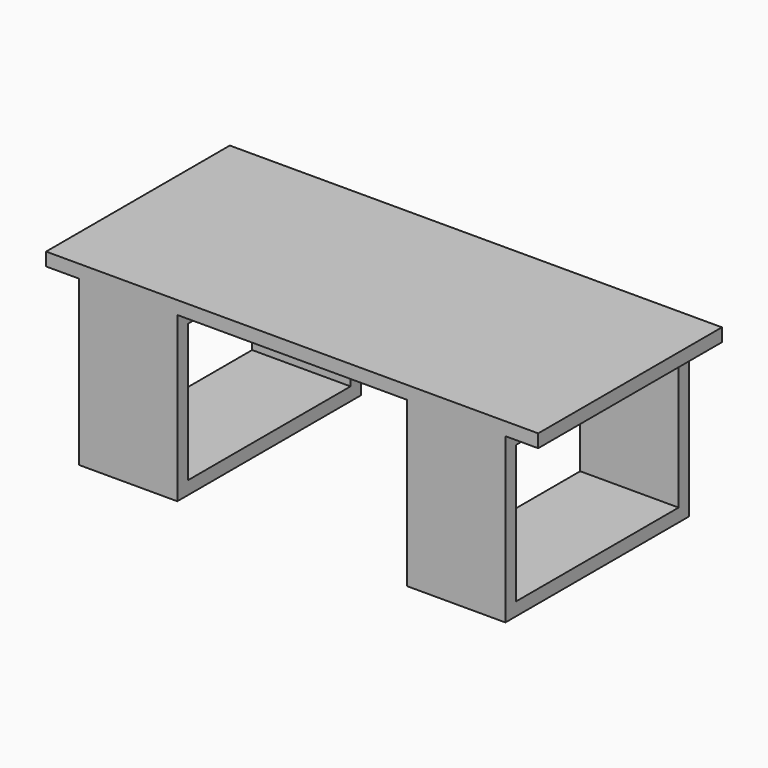
from build123d import *

# Parameters (mm, degrees)
F0_W     = 1500
F0_H     = 700
F1_DEPTH = 40
F2_W     = 300
F2_H     = 700
F3_DEPTH = 500
F4_W     = 620
F4_H     = 420
F5_DEPTH = 1328


with BuildPart() as f1:
    # F0 (on Top) → F1 (new body)
    with BuildSketch(Plane.XY):
        with Locations((750, -350)):
            Rectangle(F0_W, F0_H)
    extrude(amount=-F1_DEPTH)

    # F2 (on face) → F3 (join)
    with BuildSketch(Plane(origin=(0, 0, -40), x_dir=(1, 0, 0), z_dir=(0, 0, -1))):
        with Locations((250, 350)):
            Rectangle(F2_W, F2_H)
        with Locations((1250, 350)):
            Rectangle(F2_W, F2_H)
    extrude(amount=F3_DEPTH)

    # F4 (on face) → F5 (cut)
    with BuildSketch(Plane(origin=(100, 0, 0), x_dir=(0, -1, 0), z_dir=(-1, 0, 0))):
        with Locations((350, -290)):
            Rectangle(F4_W, F4_H)
    extrude(amount=-F5_DEPTH, mode=Mode.SUBTRACT)


solid = f1.part
